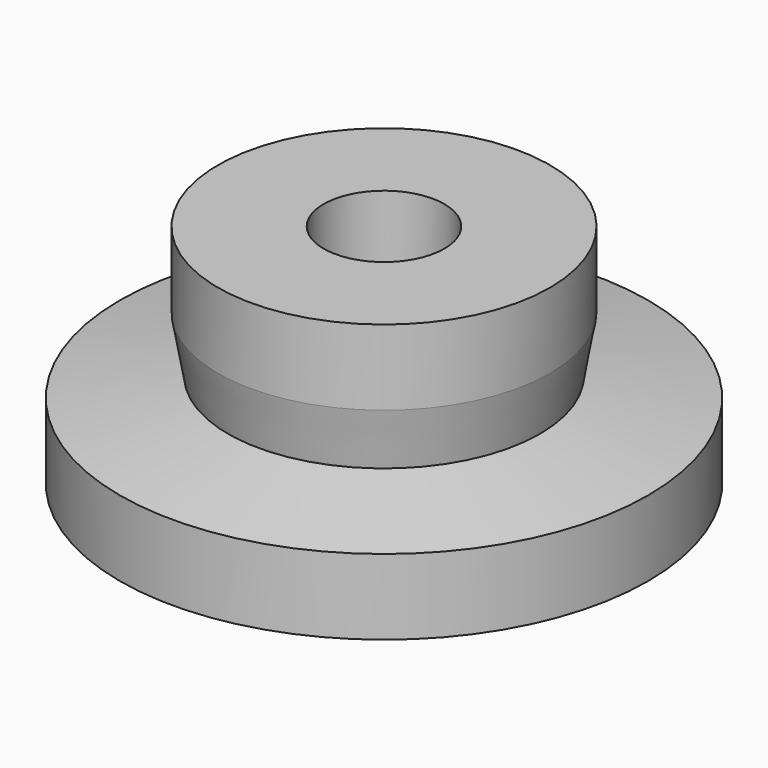
from build123d import *

# Parameters (mm, degrees)
F2_R     = 4
F3_DEPTH = 6


with BuildPart() as f1:
    # F0 (on Front) → F1 (revolve)
    with BuildSketch(Plane.XZ):
        Polygon((4, 15), (4, 0), (17.5, 0), (17.5, 5), (10.340949, 6.262334), (11, 10), (11, 15), align=None)
    revolve(axis=Axis((0, 0, 19.525763), (0, 0, 1)))

    # F2 (on face) → F3 (cut)
    with BuildSketch(Plane(origin=(0, 0, 0), x_dir=(1, 0, 0), z_dir=(0, 0, -1))):
        Polygon((-6.5, -3.752777), (0, -7.505553), (6.5, -3.752777), (6.5, 3.752777), (0, 7.505553), (-6.5, 3.752777), align=None)
        Circle(F2_R, mode=Mode.SUBTRACT)
    extrude(amount=-F3_DEPTH, mode=Mode.SUBTRACT)


solid = f1.part
